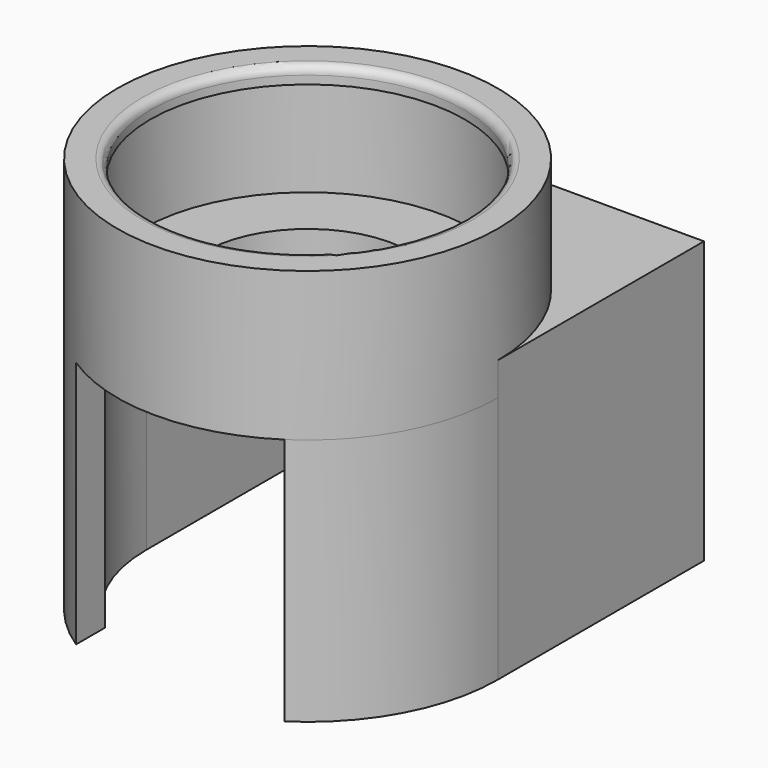
from build123d import *

# Parameters (mm, degrees)
F1_DEPTH = 15
F3_DEPTH = 2
F4_R     = 11.5
F4_R_2   = 10
F5_DEPTH = 7
F6_R     = 11.5
F6_R_2   = 9.5
F7_DEPTH = 1
F8_R     = 0.5


with BuildPart() as f1:
    # F0 (on Top) → F1 (new body)
    with BuildSketch(Plane.XY):
        with BuildLine():
            ThreePointArc((-6.3, -7.4412700529), (-8.8455497285, -4.1010669343), (-9.75, 0))
            Line((-9.75, 0), (-11.5, 0))
            ThreePointArc((-11.5, 0), (-10.1168176815, -5.4680892458), (-6.3, -9.6208107766))
            Line((-6.3, -9.6208107766), (-6.3, -7.4412700529))
        make_face()
        with BuildLine():
            Line((11.5, 0), (9.75, 0))
            ThreePointArc((9.75, 0), (8.8455497285, -4.1010669343), (6.3, -7.4412700529))
            Line((6.3, -7.4412700529), (6.3, -9.6208107766))
            ThreePointArc((6.3, -9.6208107766), (10.1168176815, -5.4680892458), (11.5, 0))
        make_face()
        with BuildLine():
            Line((9.75, 13.5), (9.75, 6.0981554588))
            ThreePointArc((9.75, 6.0981554588), (11.0538454847, 3.1721443851), (11.5, 0))
            Line((11.5, 0), (11.5, 13.5))
            Line((11.5, 13.5), (9.75, 13.5))
        make_face()
        with BuildLine():
            Line((9.75, 6.0981554588), (9.75, 0))
            Line((9.75, 0), (11.5, 0))
            ThreePointArc((11.5, 0), (11.0538454847, 3.1721443851), (9.75, 6.0981554588))
        make_face()
        with BuildLine():
            ThreePointArc((-11.5, 0), (-11.0538454847, 3.1721443851), (-9.75, 6.0981554588))
            Line((-9.75, 6.0981554588), (-9.75, 13.5))
            Line((-9.75, 13.5), (-11.5, 13.5))
            Line((-11.5, 13.5), (-11.5, 0))
        make_face()
        with BuildLine():
            Line((-11.5, 0), (-9.75, 0))
            Line((-9.75, 0), (-9.75, 6.0981554588))
            ThreePointArc((-9.75, 6.0981554588), (-11.0538454847, 3.1721443851), (-11.5, 0))
        make_face()
        Polygon((-9.75, 13.5), (9.75, 13.5), (11.5, 13.5), (11.5, 15.583621338), (-11.5, 15.583621338), (-11.5, 13.5), align=None)
    extrude(amount=F1_DEPTH)

    # F2 (on face) → F3 (join)
    with BuildSketch(Plane.XY.offset(15)):
        with BuildLine():
            Line((11.5, 15.583621338), (-11.5, 15.583621338))
            Line((-11.5, 15.583621338), (-11.5, 0))
            ThreePointArc((-11.5, 0), (0, 11.5), (11.5, 0))
            Line((11.5, 0), (11.5, 15.583621338))
        make_face()
        with BuildLine():
            ThreePointArc((11.5, 0), (0, 11.5), (-11.5, 0))
            Line((-11.5, 0), (-6.25, 0))
            ThreePointArc((-6.25, 0), (0, 6.25), (6.25, 0))
            Line((6.25, 0), (11.5, 0))
        make_face()
        with BuildLine():
            Line((-6.25, 0), (-11.5, 0))
            ThreePointArc((-11.5, 0), (0, -11.5), (11.5, 0))
            Line((11.5, 0), (6.25, 0))
            ThreePointArc((6.25, 0), (0, -6.25), (-6.25, 0))
        make_face()
    extrude(amount=F3_DEPTH)

    # F4 (on face) → F5 (join)
    with BuildSketch(Plane.XY.offset(17)):
        Circle(F4_R)
        Circle(F4_R_2, mode=Mode.SUBTRACT)
    extrude(amount=F5_DEPTH)

    # F6 (on face) → F7 (join)
    with BuildSketch(Plane.XY.offset(24)):
        Circle(F6_R)
        Circle(F6_R_2, mode=Mode.SUBTRACT)
    extrude(amount=-F7_DEPTH)

    # F8
    f8_edges = [f1.edges().sort_by_distance(p)[0] for p in [
        (-9.5, 0, 24),
    ]]
    fillet(f8_edges, radius=F8_R)


solid = f1.part
